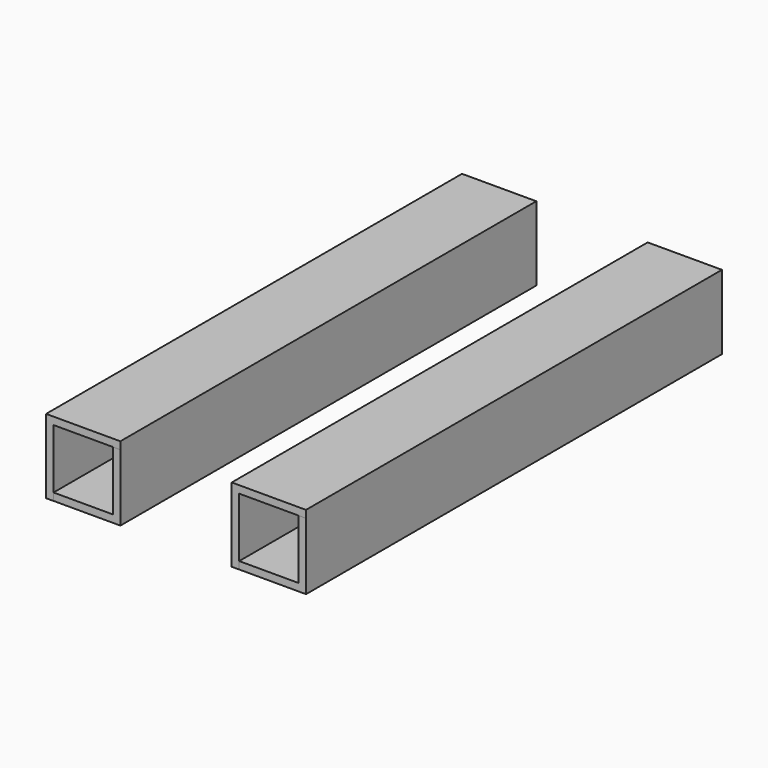
from build123d import *

# Parameters (mm, degrees)
F0_W     = 20.32
F0_H     = 152.4
F1_DEPTH = 2.54
F0_W_2   = 2.54
F2_DEPTH = 25.4
F3_W     = 152.4182725489
F3_H     = 2.54
F4_DEPTH = 22.86
F6_DEPTH = 25.4


with BuildPart() as f1:
    # F0 (on Top) → F1 (new body)
    with BuildSketch(Plane.XY):
        with Locations((-29.6994138837, 34.0627496958)):
            Rectangle(F0_W, F0_H)
    extrude(amount=F1_DEPTH)

    # F0 (on Top) → F2 (join)
    with BuildSketch(Plane.XY):
        Polygon((-39.8594138837, -42.1372503042), (-39.8594138837, 110.2627496958), (-42.3994138837, 110.2627496958), (-42.3994138837, -42.1555228531), (-39.8594138837, -42.1555228531), align=None)
        with Locations((-18.2694138837, 34.0627496958)):
            Rectangle(F0_W_2, F0_H)
    extrude(amount=F2_DEPTH)

    # F3 (on face) → F4 (join)
    with BuildSketch(Plane.YZ.offset(-39.8594138837)):
        with Locations((34.0536134213, 24.13)):
            Rectangle(F3_W, F3_H)
    extrude(amount=F4_DEPTH)


with BuildPart() as f5_1:
    # F5: copy of F1
    add(f1.part.moved(Location((63.5, 0, 0))))

    # F6 (add): a face of the model
    f6_faces = [f5_1.faces().sort_by_distance(p)[0] for p in [
        (33.8005861163, 110.2627496958, 2.1807897552),
    ]]
    extrude(f6_faces, amount=F6_DEPTH)


with BuildPart() as f1_1:
    add(f1.part)

    # F6#2 (add): a face of the model
    f6_2_faces = [f1_1.faces().sort_by_distance(p)[0] for p in [
        (-29.6994138837, 110.2627496958, 2.1807897552),
    ]]
    extrude(f6_2_faces, amount=F6_DEPTH)


solid = Compound([f5_1.part, f1_1.part])
